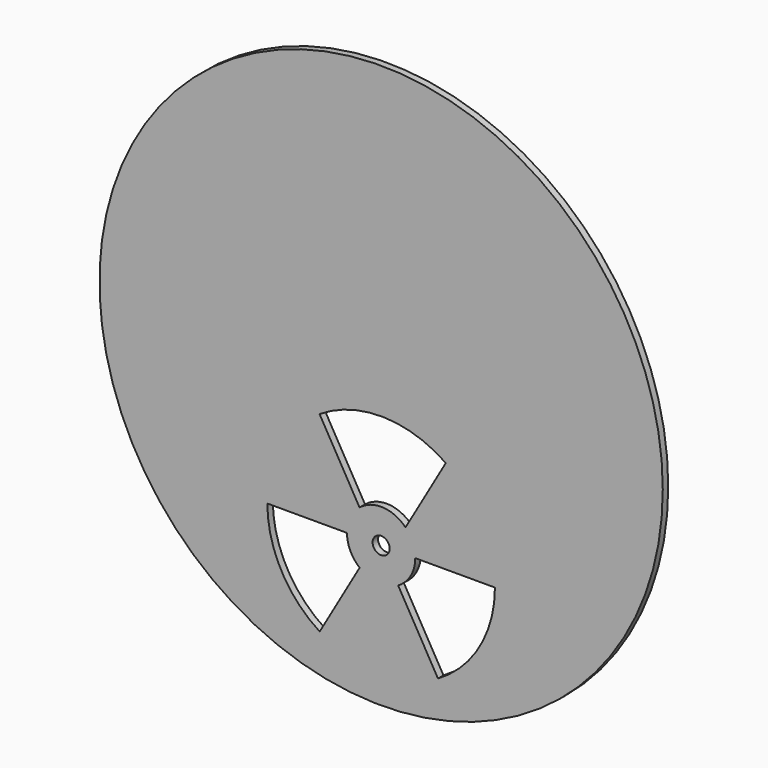
from build123d import *

# Parameters (mm, degrees)
F0_R     = 247.5
F0_R_2   = 7.5
F1_DEPTH = 6


with BuildPart() as f1:
    # F0 (on Front) → F1 (new body)
    with BuildSketch(Plane.XZ):
        Circle(F0_R)
        with BuildLine():
            ThreePointArc((-54.014982, -207.906888), (-87.753912, -171.700505), (-100, -123.75))
            Line((-100, -123.75), (-30, -123.75))
            ThreePointArc((-30, -123.75), (-27.079055, -136.662194), (-18.885016, -147.060002))
            Line((-18.885016, -147.060002), (-54.014982, -207.906888))
        make_face(mode=Mode.SUBTRACT)
        with BuildLine():
            Line((30, -123.75), (100, -123.75))
            ThreePointArc((100, -123.75), (86.588738, -173.773898), (49.952192, -210.380125))
            Line((49.952192, -210.380125), (14.952174, -149.758316))
            ThreePointArc((14.952174, -149.758316), (25.966952, -138.773894), (30, -123.75))
        make_face(mode=Mode.SUBTRACT)
        with Locations((0, -123.75)):
            Circle(F0_R_2, mode=Mode.SUBTRACT)
        with BuildLine():
            Line((-18.960726, -100.50154), (-54.096123, -39.645247))
            ThreePointArc((-54.096123, -39.645247), (1.641257, -23.76347), (56.827358, -41.466032))
            Line((56.827358, -41.466032), (21.437345, -102.763332))
            ThreePointArc((21.437345, -102.763332), (1.677002, -93.796909), (-18.960726, -100.50154))
        make_face(mode=Mode.SUBTRACT)
    extrude(amount=F1_DEPTH)


solid = f1.part
